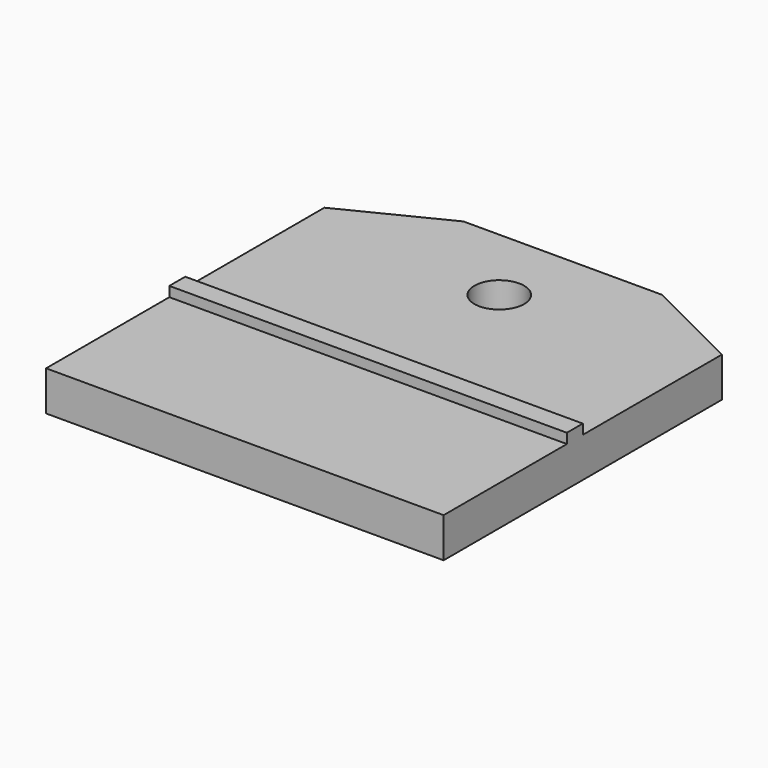
from build123d import *

# Parameters (mm, degrees)
F0_R     = 2.5
F1_DEPTH = 4
F2_W     = 40
F2_H     = 2
F3_DEPTH = 1


with BuildPart() as f1:
    # F0 (on Top) → F1 (new body)
    with BuildSketch(Plane.XY):
        Polygon((0, 35), (0, 0), (40, 0), (40, 35), (30, 40), (10, 40), align=None)
        with Locations((20, 32)):
            Circle(F0_R, mode=Mode.SUBTRACT)
    extrude(amount=F1_DEPTH)

    # F2 (on face) → F3 (join)
    with BuildSketch(Plane.XY.offset(4)):
        with Locations((20, 16.5)):
            Rectangle(F2_W, F2_H)
    extrude(amount=F3_DEPTH)


solid = f1.part
